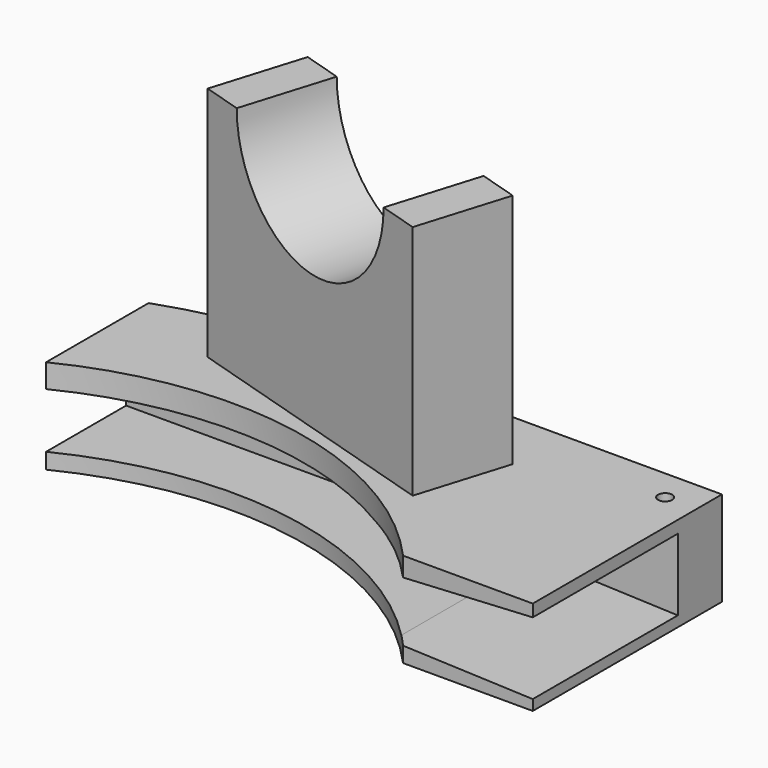
from build123d import *

# Parameters (mm, degrees)
PAD_DEPTH       = 12
PAD001_DEPTH    = 30
SKETCH002_R     = 12.9
POCKET_DEPTH    = 35.6974328919
SKETCH003_W     = 100
SKETCH003_H     = 7
POCKET001_DEPTH = 23
SKETCH004_R     = 0.9
POCKET002_DEPTH = 12
SKETCH005_R     = 1.25
POCKET003_DEPTH = 9
POCKET004_DEPTH = 23


with BuildPart() as part:
    # Sketch → Pad (new body)
    with BuildSketch(Plane.XY):
        with BuildLine():
            Line((33.5410196625, 30), (50, 30))
            Line((50, 30), (50, 60))
            Line((0, 60), (50, 60))
            ThreePointArc((0, 60), (-10.1461187235, 59.1359135792), (-20, 56.5685424949))
            Line((-20, 40.3112887415), (-20, 56.5685424949))
            ThreePointArc((33.5410196625, 30), (8.5100218715, 44.1880020792), (-20, 40.3112887415))
        make_face()
    extrude(amount=PAD_DEPTH)

    # Sketch001 → Pad001 (new body)
    with BuildSketch(Plane.XY.offset(12)):
        Polygon((-4.671183324, 62.6409760428), (29.7557878907, 52.1155946728), (26.247327434, 40.6399376012), (-8.1796437806, 51.1653189712), align=None)
    extrude(amount=PAD001_DEPTH)

    # Sketch002 → Pocket (cut, through all)
    with BuildSketch(Plane(origin=(17.1148962148, 55.9803030991, 0), x_dir=(-0.956304756, 0.2923717047, 0), z_dir=(0.2923717047, 0.956304756, 0))):
        with Locations((4.7815237798, 42)):
            Circle(SKETCH002_R)
    extrude(amount=-POCKET_DEPTH, mode=Mode.SUBTRACT)

    # Sketch003 → Pocket001 (cut)
    with BuildSketch(Plane.XZ.offset(-30)):
        with Locations((11.7941241648, 5.5)):
            Rectangle(SKETCH003_W, SKETCH003_H)
    extrude(amount=-POCKET001_DEPTH, mode=Mode.SUBTRACT)

    # Sketch004 → Pocket002 (cut)
    with BuildSketch(Plane(origin=(0, 0, 0), x_dir=(1, 0, 0), z_dir=(0, 0, -1))):
        with Locations((-10, -56)):
            Circle(SKETCH004_R)
        with Locations((18, -56)):
            Circle(SKETCH004_R)
        with Locations((46, -56)):
            Circle(SKETCH004_R)
    extrude(amount=-POCKET002_DEPTH, mode=Mode.SUBTRACT)

    # Sketch005 → Pocket003 (cut)
    with BuildSketch(Plane(origin=(0, 0, 0), x_dir=(1, 0, 0), z_dir=(0, 0, -1))):
        with Locations((18, -56)):
            Circle(SKETCH005_R)
        with Locations((-10, -56)):
            Circle(SKETCH005_R)
        with Locations((46, -56)):
            Circle(SKETCH005_R)
    extrude(amount=-POCKET003_DEPTH, mode=Mode.SUBTRACT)

    # Sketch006 → Pocket004 (cut)
    with BuildSketch(Plane.XZ.offset(-30)):
        Polygon((71.676384, 11.631999), (1.884626, 7.843544), (1.884626, 3.12902), (71.676384, 0.519198), align=None)
    extrude(amount=-POCKET004_DEPTH, mode=Mode.SUBTRACT)


solid = part.part
